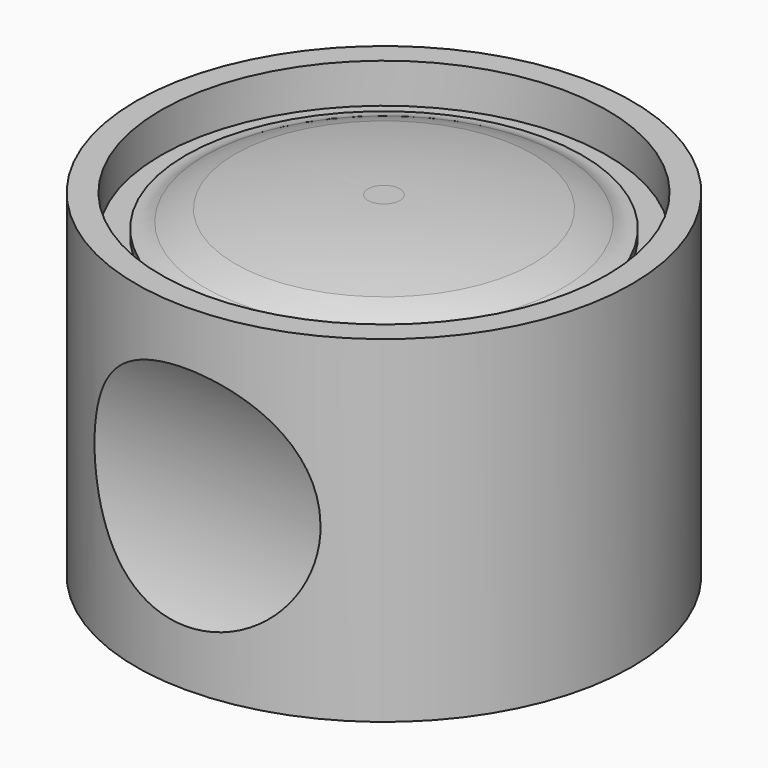
from build123d import *

# Parameters (mm, degrees)
F2_R     = 12.5
F2_R_2   = 10
F3_DEPTH = 15
F4_R     = 12.5
F4_R_2   = 11.25
F5_DEPTH = 2
F8_DEPTH = 50


with BuildPart() as f1:
    # F0 (on Front) → F1 (revolve)
    with BuildSketch(Plane.XZ):
        with BuildLine():
            Line((4.9800029832, -0.7875902065), (4.9800029832, -0.3815757062))
            Line((4.9800029832, -0.3815757062), (4.9800029832, 1.1184242938))
            Line((4.9800029832, 1.1184242938), (4.1800029832, 1.1184242938))
            ThreePointArc((4.1800029832, 1.1184242938), (0.8118554552, 0.9601863869), (-2.5266210559, 0.4868666314))
            ThreePointArc((-2.5266210559, 0.4868666314), (-3.3020091302, 0.2364900314), (-4.0513253894, -0.083572855))
            ThreePointArc((-4.0513253894, -0.083572855), (-4.5132598016, -0.3053910404), (-5.0199970168, -0.3815757062))
            Line((-5.0199970168, -0.3815757062), (-5.0199970168, -0.7875902065))
            Line((-5.0199970168, -0.7875902065), (4.9800029832, -0.7875902065))
        make_face()
    revolve(axis=Axis((4.9800029832, 0, 0.3684242938), (0, 0, 1)))

    # F2 (on face) → F3 (join)
    with BuildSketch(Plane(origin=(0, 0, -0.7875902065), x_dir=(1, 0, 0), z_dir=(0, 0, -1))):
        with Locations((4.9800029832, 0)):
            Circle(F2_R)
        with Locations((4.9800029832, 0)):
            Circle(F2_R_2, mode=Mode.SUBTRACT)
        with Locations((4.9800029832, 0)):
            Circle(F2_R_2)
    extrude(amount=F3_DEPTH)

    # F4 (on face) → F5 (join)
    with BuildSketch(Plane.XY.offset(-0.7875902065)):
        with Locations((4.9800029832, 0)):
            Circle(F4_R)
        with Locations((4.9800029832, 0)):
            Circle(F4_R_2, mode=Mode.SUBTRACT)
    extrude(amount=F5_DEPTH)

    # F7 (on offset) → F8 (cut)
    with BuildSketch(Plane.YZ.offset(17.3)):
        with BuildLine():
            Line((-13.25, -0.238639344), (-13.25, -14.238639344))
            ThreePointArc((-13.25, -14.238639344), (-11.1241774834, -7.238639344), (-13.25, -0.238639344))
        make_face()
        with BuildLine():
            ThreePointArc((13.25, -0.238639344), (11.1241774834, -7.238639344), (13.25, -14.238639344))
            Line((13.25, -14.238639344), (13.25, -0.238639344))
        make_face()
    extrude(amount=-F8_DEPTH, mode=Mode.SUBTRACT)


solid = f1.part
